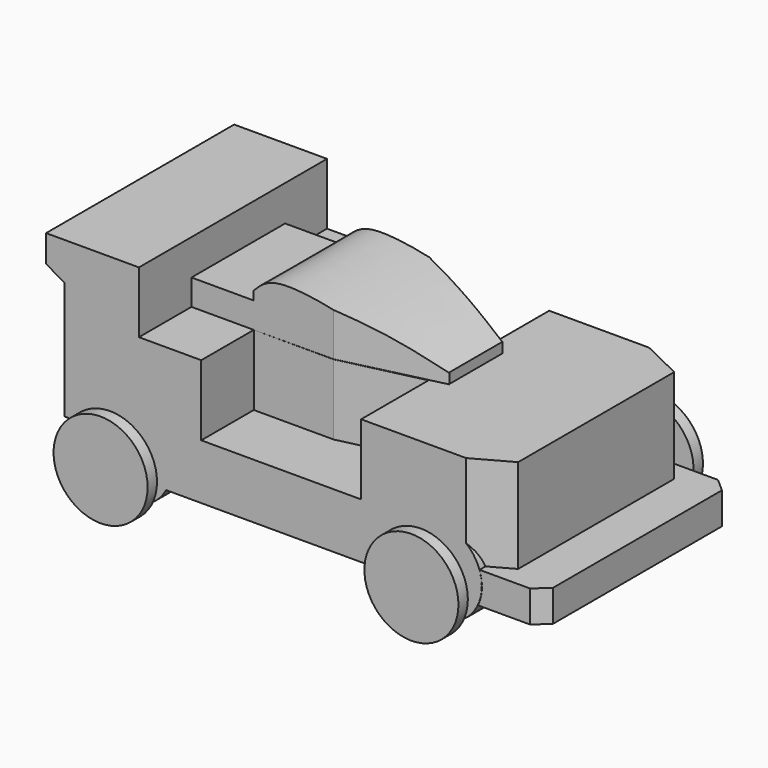
from build123d import *

# Parameters (mm, degrees)
F1_DEPTH      = 50.8
F2_R          = 9.144
F3_DEPTH      = 54.864
F4_R          = 4.064
F5_DEPTH      = 56.134
F5_DEPTH_BACK = 5.334
F7_START      = 5.08
F6_R          = 10.16
F7_DEPTH      = 2.54
F9_START      = 5.08
F8_R          = 10.16
F9_DEPTH      = 2.54
F10_W         = 34.544
F10_H         = 25.4
F11_DEPTH     = 15.24
F12_W         = 13.462
F12_H         = 25.2863662317
F13_DEPTH     = 5.588
F15_DEPTH     = 25.273
F17_DEPTH     = 9.3726
F19_DEPTH     = 20.32
F20_R         = 9.144
F20_R_2       = 4.699
F21_DEPTH     = 50.8
F22_W         = 6.9764815271
F22_H         = 14.4462492317
F23_DEPTH     = 11.176
F25_DEPTH     = 25.4
F27_DEPTH     = 15.24


with BuildPart() as f1:
    # F0 (on Front) → F1 (new body)
    with BuildSketch(Plane.XZ):
        with BuildLine():
            ThreePointArc((-39.3160984872, -27.7575049432), (-33.9790579937, -38.7625558195), (-22.4726634651, -34.6155049432))
            ThreePointArc((-22.4726634651, -34.6155049432), (-21.6624499567, -32.5217293492), (-21.3868406955, -30.2936400999))
            ThreePointArc((-21.3868406955, -30.2936400999), (-29.2501497194, -21.2397698433), (-39.3160984872, -27.7575049432))
        make_face()
        with BuildLine():
            ThreePointArc((-21.3868406955, -30.2936400999), (-21.6624499567, -32.5217293492), (-22.4726634651, -34.6155049432))
            Line((-22.4726634651, -34.6155049432), (28.3273365349, -34.6155049432))
            ThreePointArc((28.3273365349, -34.6155049432), (34.6764494687, -21.8598808978), (45.7775638516, -30.7919825146))
            ThreePointArc((45.7775638516, -30.7919825146), (45.5656654684, -32.7490968975), (44.9397911684, -34.6155049432))
            Line((44.9397911684, -34.6155049432), (59.0346912427, -34.6155049432))
            Line((59.0346912427, -34.6155049432), (59.0346912427, -27.7575049432))
            Line((59.0346912427, -27.7575049432), (50.1446912427, -27.7575049432))
            Line((50.1446912427, -27.7575049432), (50.1446912427, -7.4375049432))
            Line((50.1446912427, -7.4375049432), (19.6646912427, -7.4375049432))
            Line((19.6646912427, -7.4375049432), (19.6646912427, -22.6775049432))
            Line((19.6646912427, -22.6775049432), (-14.8793087573, -22.6775049432))
            Line((-14.8793087573, -22.6775049432), (-14.8793087573, -7.4375049432))
            Line((-14.8793087573, -7.4375049432), (-28.3413087573, -7.4375049432))
            Line((-28.3413087573, -7.4375049432), (-28.3413087573, 5.842))
            Line((-28.3413087573, 5.842), (-48.4073087573, 5.842))
            Line((-48.4073087573, 5.842), (-48.4073087573, 0))
            Line((-48.4073087573, 0), (-44.4313660264, -2.3575049432))
            Line((-44.4313660264, -2.3575049432), (-44.4313660264, -27.7575049432))
            Line((-44.4313660264, -27.7575049432), (-39.3160984872, -27.7575049432))
            ThreePointArc((-39.3160984872, -27.7575049432), (-29.2501497194, -21.2397698433), (-21.3868406955, -30.2936400999))
        make_face()
        with BuildLine():
            ThreePointArc((45.7775638516, -30.7919825146), (34.6764494687, -21.8598808978), (28.3273365349, -34.6155049432))
            ThreePointArc((28.3273365349, -34.6155049432), (36.6335638516, -39.9359825146), (44.9397911684, -34.6155049432))
            ThreePointArc((44.9397911684, -34.6155049432), (45.5656654684, -32.7490968975), (45.7775638516, -30.7919825146))
        make_face()
    extrude(amount=F1_DEPTH)

    # F2 (on face) → F3 (cut)
    with BuildSketch(Plane.XZ.offset(50.8)):
        with Locations((-30.5308406955, -30.2936400999)):
            Circle(F2_R)
        with Locations((36.6335638516, -30.7919825146)):
            Circle(F2_R)
    extrude(amount=-F3_DEPTH, mode=Mode.SUBTRACT)

    # F10 (on face) → F11 (join)
    with BuildSketch(Plane.XY.offset(-22.6775049432)):
        with Locations((2.3926912427, -23.9094186902)):
            Rectangle(F10_W, F10_H)
    extrude(amount=F11_DEPTH)

    # F12 (on face) → F13 (join)
    with BuildSketch(Plane.XY.offset(-7.4375049432)):
        with Locations((-21.6103087573, -23.9662355743)):
            Rectangle(F12_W, F12_H)
    extrude(amount=F13_DEPTH)

    # F14 (on face) → F15 (join)
    with BuildSketch(Plane.XZ.offset(36.6094186902)):
        with BuildLine():
            add(Edge.make_bspline(
                [(-14.9534931406, 0), (-13.7084147885, 1.280785357), (-10.1476321192, 4.9436860046), (10.580938155, 0.3784500707), (20.8913849344, -4.0742789406), (26.1342285398, -6.3342501821), (28.4668169916, -7.3397317901)],
                knots=[0, 0, 0, 0, 0.183241401, 0.5240495941, 0.7882453676, 1, 1, 1, 1], degree=3))
            Line((-14.9534931406, 0), (-14.8793087573, -7.4375049432))
            Line((-14.8793087573, -7.4375049432), (28.4668169916, -7.3397317901))
        make_face()
    extrude(amount=-F15_DEPTH)

    # F16 (on face) → F17 (cut)
    with BuildSketch(Plane.XY.offset(-7.4375049432)):
        Polygon((2.3926912427, -11.2094186902), (28.6921481749, -18.8049337278), (28.7324799613, -11.1850404643), align=None)
        Polygon((28.6921481749, -38.0666863767), (28.7324799613, -30.4467931132), (2.3926912427, -36.6094186902), align=None)
    extrude(amount=F17_DEPTH, mode=Mode.SUBTRACT)

    # F18 (on face) → F19 (cut)
    with BuildSketch(Plane.XY.offset(-7.4375049432)):
        Polygon((50.1446912427, -4.318), (50.1446912427, 0), (41.2546912427, 0), align=None)
        Polygon((42.373785504, -50.8), (50.1446912427, -50.8), (50.1446912427, -46.482), align=None)
    extrude(amount=-F19_DEPTH, mode=Mode.SUBTRACT)

    # F20 (on face) → F21 (join)
    with BuildSketch(Plane(origin=(0, 0, 0), x_dir=(-1, 0, 0), z_dir=(0, 1, 0))):
        with Locations((30.5308406955, -30.2936400999)):
            Circle(F20_R)
        with Locations((30.5308406955, -30.2936400999)):
            Circle(F20_R_2, mode=Mode.SUBTRACT)
        with Locations((-36.5999266505, -30.7384990156)):
            Circle(F20_R)
        with Locations((-36.5999266505, -30.7384990156)):
            Circle(F20_R_2, mode=Mode.SUBTRACT)
    extrude(amount=-F21_DEPTH)

    # F22 (on face) → F23 (cut)
    with BuildSketch(Plane.XY.offset(-7.4375049432)):
        with Locations((26.8421266228, -24.4486602023)):
            Rectangle(F22_W, F22_H)
    extrude(amount=F23_DEPTH, mode=Mode.SUBTRACT)

    # F24 (on face) → F25 (cut)
    with BuildSketch(Plane.XY.offset(-27.7575049432)):
        Polygon((59.0346912427, 0), (56.1390912427, 0), (59.0346912427, -2.5536791654), align=None)
        Polygon((59.0346912427, -48.2346), (56.1494703707, -50.8), (59.0346912427, -50.8), align=None)
    extrude(amount=-F25_DEPTH, mode=Mode.SUBTRACT)

    # F26 (on face) → F27 (cut)
    with BuildSketch(Plane.XY.offset(-7.4375049432)):
        Polygon((19.6646912427, -16.1684937775), (19.6646912427, -11.2094186902), (2.3926912427, -11.2094186902), align=None)
        Polygon((2.3926912427, -36.6094186902), (19.6646912427, -36.6094186902), (19.6646912427, -32.5878895819), align=None)
    extrude(amount=-F27_DEPTH, mode=Mode.SUBTRACT)


with BuildPart() as f5:
    # F4 (on face) → F5 (new body, two sides)
    with BuildSketch(Plane.XZ.offset(50.8)) as f5_sk:
        with Locations((36.6335638516, -30.7919825146)):
            Circle(F4_R)
    extrude(amount=-F5_DEPTH)
    extrude(f5_sk.sketch, amount=F5_DEPTH_BACK)


with BuildPart() as f5b:
    # F4 (on face) → F5, piece 2 (new body, two sides)
    with BuildSketch(Plane.XZ.offset(50.8)) as f5_2_sk:
        with Locations((-30.5308406955, -30.2936400999)):
            Circle(F4_R)
    extrude(amount=-F5_DEPTH)
    extrude(f5_2_sk.sketch, amount=F5_DEPTH_BACK)


with BuildPart() as f7:
    # F6 (on face) → F7 (new body)
    with BuildSketch(Plane.XZ.offset(50.8).offset(F7_START)):
        with Locations((-30.5308406955, -30.2936400999)):
            Circle(F6_R)
    extrude(amount=F7_DEPTH)


with BuildPart() as f7b:
    # F6 (on face) → F7, piece 2 (new body)
    with BuildSketch(Plane.XZ.offset(50.8).offset(F7_START)):
        with Locations((36.6335638516, -30.7919825146)):
            Circle(F6_R)
    extrude(amount=F7_DEPTH)


with BuildPart() as f9:
    # F8 (on face) → F9 (new body)
    with BuildSketch(Plane(origin=(0, 0, 0), x_dir=(-1, 0, 0), z_dir=(0, 1, 0)).offset(F9_START)):
        with Locations((-36.6335638516, -30.7919825146)):
            Circle(F8_R)
    extrude(amount=F9_DEPTH)


with BuildPart() as f9b:
    # F8 (on face) → F9, piece 2 (new body)
    with BuildSketch(Plane(origin=(0, 0, 0), x_dir=(-1, 0, 0), z_dir=(0, 1, 0)).offset(F9_START)):
        with Locations((30.5308406955, -30.2936400999)):
            Circle(F8_R)
    extrude(amount=F9_DEPTH)


solid = Compound([f1.part, f5.part, f5b.part, f7.part, f7b.part, f9.part, f9b.part])
